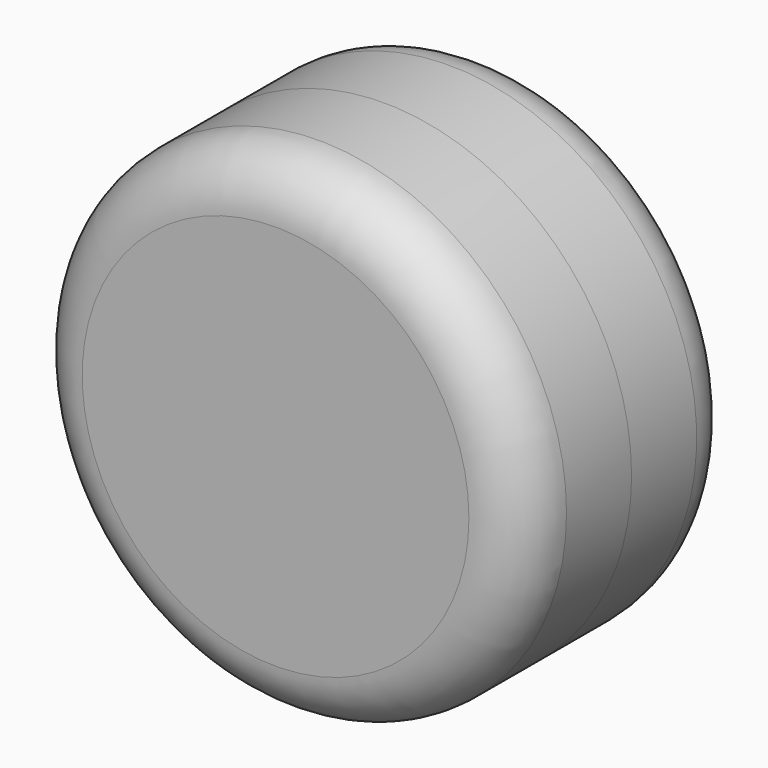
from build123d import *

# Parameters (mm, degrees)
F0_R     = 23.199373
F1_DEPTH = 12.7
F2_R     = 23.199373
F3_DEPTH = 12.7
F4_R     = 5.08


with BuildPart() as f1:
    # F0 (on Front) → F1 (new body)
    with BuildSketch(Plane.XZ):
        with Locations((-16.925193, -16.925193)):
            Circle(F0_R)
    extrude(amount=F1_DEPTH)

    # F2 (on face) → F3 (join)
    with BuildSketch(Plane(origin=(0, 0, 0), x_dir=(-1, 0, 0), z_dir=(0, 1, 0))):
        with Locations((16.925193, -16.925193)):
            Circle(F2_R)
    extrude(amount=F3_DEPTH)

    # F4
    f4_edges = [f1.edges().sort_by_distance(p)[0] for p in [
        (6.274179, 12.7, -16.925193),
        (-16.925193, 0, 6.274179),
        (-16.925193, 0, -40.124566),
        (6.274179, -6.35, -16.925193),
        (-40.124566, -12.7, -16.925193),
        (-40.124566, 6.35, -16.925193),
    ]]
    fillet(f4_edges, radius=F4_R)


solid = f1.part
